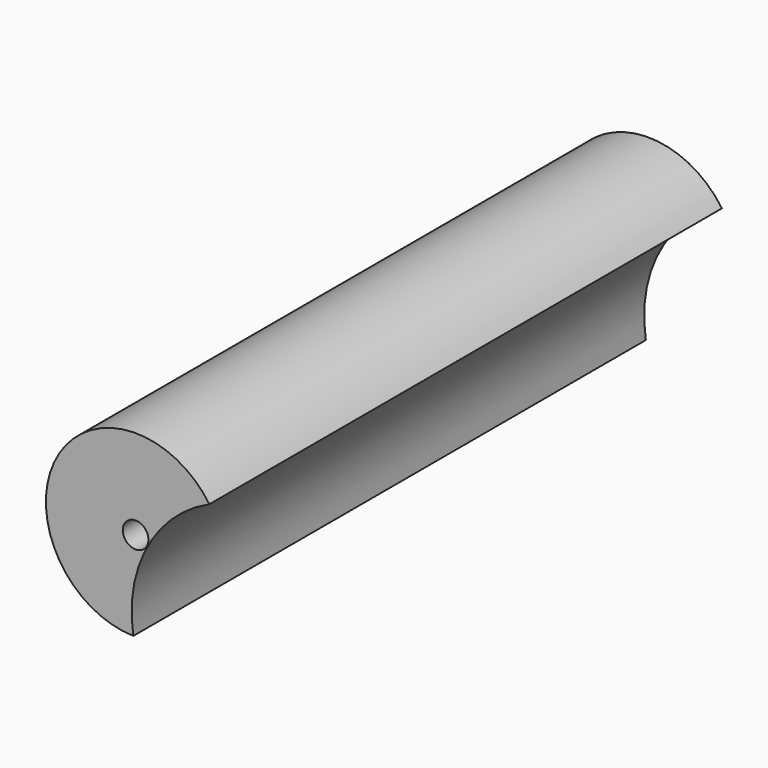
from build123d import *

# Parameters (mm, degrees)
F0_R     = 70
F0_R_2   = 10
F1_DEPTH = 500
F2_R     = 102.5
F3_DEPTH = 600


with BuildPart() as f1:
    # F0 (on Front) → F1 (new body)
    with BuildSketch(Plane.XZ):
        Circle(F0_R)
        Circle(F0_R_2, mode=Mode.SUBTRACT)
    extrude(amount=F1_DEPTH)

    # F2 (on face) → F3 (cut)
    with BuildSketch(Plane.XZ.offset(500)):
        with Locations((99.402683, -53.741107)):
            Circle(F2_R)
    extrude(amount=-F3_DEPTH, mode=Mode.SUBTRACT)


solid = f1.part
